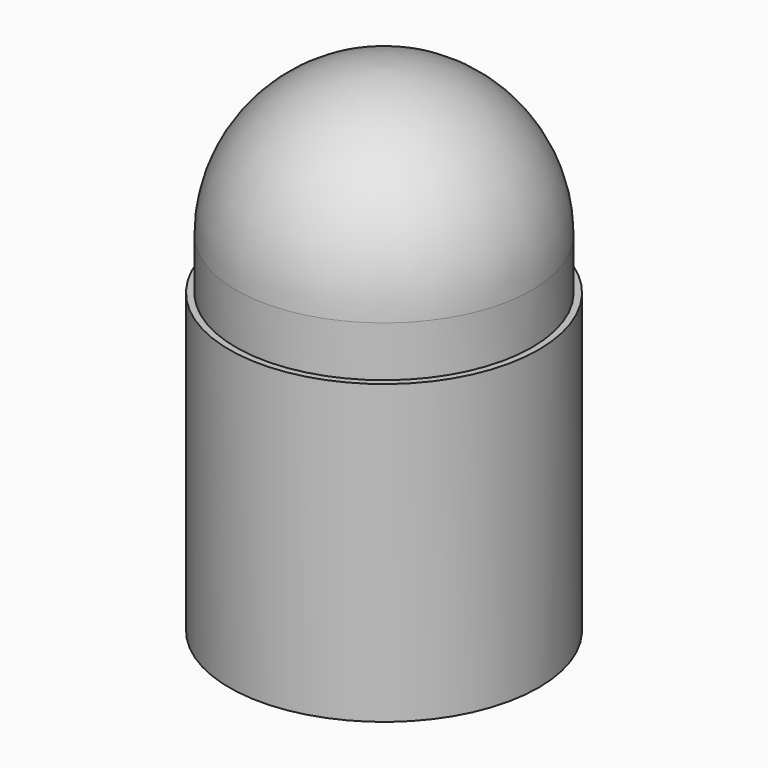
from build123d import *

# Parameters (mm, degrees)
F0_R     = 19.812
F1_DEPTH = 38.1
F2_R     = 16.548802
F3_DEPTH = 33.528
F4_R     = 18.971562
F5_DEPTH = 25.4
F6_R     = 18.9484


with BuildPart() as f1:
    # F0 (on Top) → F1 (new body)
    with BuildSketch(Plane.XY):
        Circle(F0_R)
    extrude(amount=F1_DEPTH)

    # F2 (on face) → F3 (cut)
    with BuildSketch(Plane.XY.offset(38.1)):
        Circle(F2_R)
    extrude(amount=-F3_DEPTH, mode=Mode.SUBTRACT)

    # F4 (on face) → F5 (join)
    with BuildSketch(Plane.XY.offset(38.1)):
        Circle(F4_R)
    extrude(amount=F5_DEPTH)

    # F6
    f6_edges = [f1.edges().sort_by_distance(p)[0] for p in [
        (-18.971562, 0, 63.5),
    ]]
    fillet(f6_edges, radius=F6_R)


solid = f1.part
